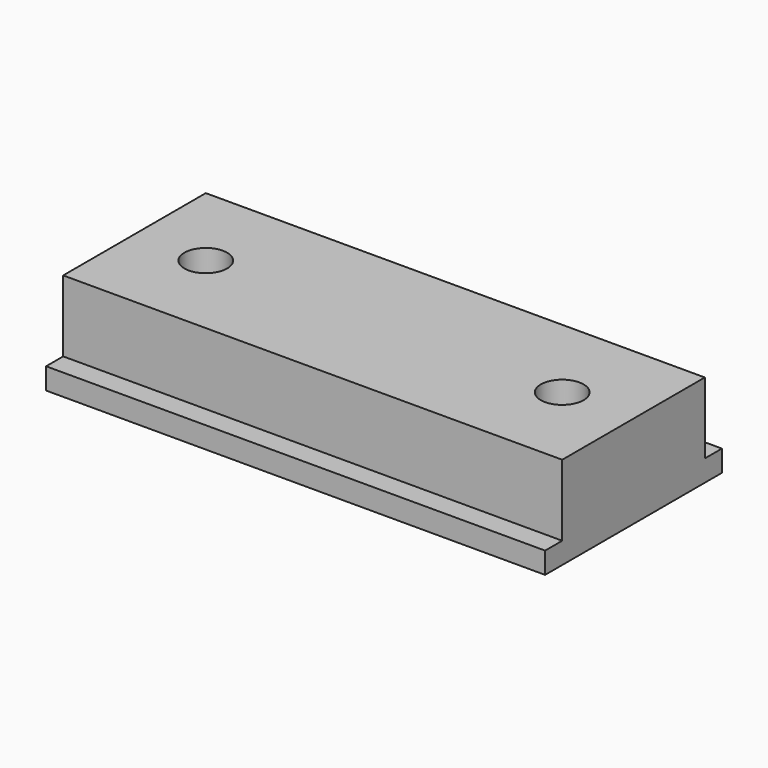
from build123d import *

# Parameters (mm, degrees)
F0_W          = 28
F0_H          = 4
F1_DEPTH      = 10
F2_W          = 28
F2_H          = 1.2
F3_DEPTH      = 1.2
F3_DEPTH_BACK = 11.2
F5_D          = 2.4
F5_DEPTH      = 15


with BuildPart() as f1:
    # F0 (on Front) → F1 (new body)
    with BuildSketch(Plane.XZ):
        with Locations((14, 2)):
            Rectangle(F0_W, F0_H)
    extrude(amount=-F1_DEPTH)

    # F2 (on Front) → F3 (join, two sides)
    with BuildSketch(Plane.XZ) as f3_sk:
        with Locations((14, -0.6)):
            Rectangle(F2_W, F2_H)
    extrude(amount=F3_DEPTH)
    extrude(f3_sk.sketch, amount=-F3_DEPTH_BACK)

    # F5
    with Locations(Plane.XY.offset(4)):
        with Locations((4, 5), (24, 5)):
            Hole(F5_D / 2, depth=F5_DEPTH)


solid = f1.part
